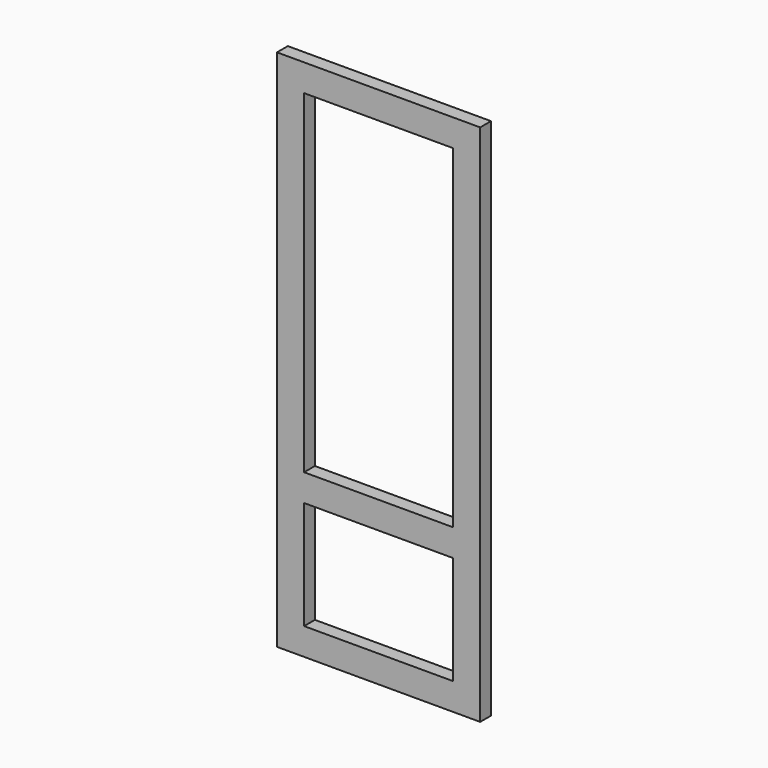
from build123d import *

# Parameters (mm, degrees)
F0_W     = 750
F0_H     = 1932
F0_W_2   = 550
F0_H_2   = 100
F1_DEPTH = 25
F3_R     = 6
F4_DEPTH = 4


with BuildPart() as f1:
    # F0 (on Front) → F1 (new body, symmetric)
    with BuildSketch(Plane.XZ):
        Rectangle(F0_W, F0_H)
        Polygon((-275, -366), (-275, 866), (275, 866), (275, -366), (275, -466), (275, -866), (-275, -866), (-275, -466), align=None, mode=Mode.SUBTRACT)
        with Locations((0, -416)):
            Rectangle(F0_W_2, F0_H_2)
    extrude(amount=F1_DEPTH, both=True)

    # F3 (on offset) → F4 (join)
    with BuildSketch(Plane.YZ.offset(-375)):
        with Locations((10, 766)):
            Circle(F3_R)
        with Locations((10, -766)):
            Circle(F3_R)
    extrude(amount=-F4_DEPTH)


solid = f1.part
